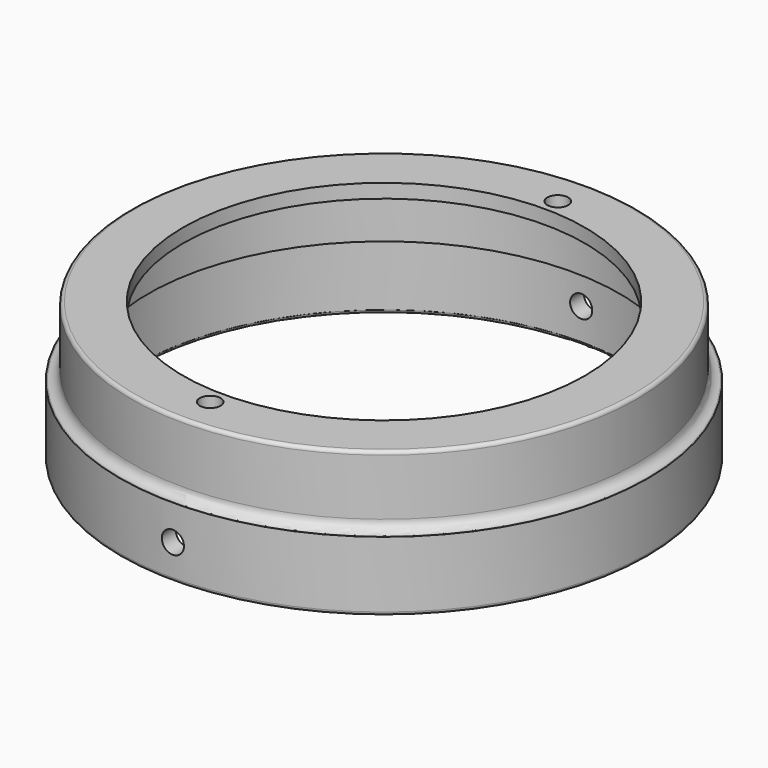
from build123d import *

# Parameters (mm, degrees)
SKETCH_R          = 48.1711
SKETCH_R_2        = 44.9961
PAD_DEPTH         = 12.7
SKETCH001_R       = 46.1645
SKETCH001_R_2     = 42.9895
PAD001_DEPTH      = 12.7
SKETCH002_R       = 2.0193
POCKET_DEPTH      = 76.2
POCKET_DEPTH_BACK = 76.2
SKETCH003_R       = 45.974
SKETCH003_R_2     = 36.6395
PAD002_DEPTH      = 2.54
SKETCH004_R       = 1.905
POCKET001_DEPTH   = 5.08
FILLET_R          = 0.635
FILLET001_R       = 1.778
FILLET002_R       = 0.635


with BuildPart() as part:
    # Sketch → Pad (new body)
    with BuildSketch(Plane.XY):
        Circle(SKETCH_R)
        Circle(SKETCH_R_2, mode=Mode.SUBTRACT)
    extrude(amount=PAD_DEPTH)

    # Sketch001 (on Face4 of Pad) → Pad001 (join)
    with BuildSketch(Plane.XY.offset(12.7)):
        Circle(SKETCH001_R)
        Circle(SKETCH001_R_2, mode=Mode.SUBTRACT)
    extrude(amount=PAD001_DEPTH)

    # Sketch002 → Pocket (cut, two sides)
    with BuildSketch(Plane.XZ) as pocket_sk:
        with Locations((0, 6.35)):
            Circle(SKETCH002_R)
    extrude(amount=POCKET_DEPTH, mode=Mode.SUBTRACT)
    extrude(pocket_sk.sketch, amount=-POCKET_DEPTH_BACK, mode=Mode.SUBTRACT)

    # Sketch003 → Pad002 (join)
    with BuildSketch(Plane.XY.offset(25.4)):
        Circle(SKETCH003_R)
        Circle(SKETCH003_R_2, mode=Mode.SUBTRACT)
    extrude(amount=-PAD002_DEPTH)

    # Sketch004 (on Face12 of Pad002) → Pocket001 (cut)
    with BuildSketch(Plane(origin=(0, 0, 22.86), x_dir=(1, 0, 0), z_dir=(0, 0, -1))):
        with Locations((0, 39.624)):
            Circle(SKETCH004_R)
        with Locations((0, -39.624)):
            Circle(SKETCH004_R)
    extrude(amount=-POCKET001_DEPTH, mode=Mode.SUBTRACT)

    # Fillet
    fillet_edges = [part.edges().sort_by_distance(p)[0] for p in [
        (-48.1711, 0, 0),
        (-44.9961, 0, 0),
    ]]
    fillet(fillet_edges, radius=FILLET_R)

    # Fillet001
    fillet001_edges = [part.edges().sort_by_distance(p)[0] for p in [
        (-46.1645, 0, 12.7),
    ]]
    fillet(fillet001_edges, radius=FILLET001_R)

    # Fillet002
    fillet002_edges = [part.edges().sort_by_distance(p)[0] for p in [
        (-46.1645, 0, 25.4),
    ]]
    fillet(fillet002_edges, radius=FILLET002_R)


solid = part.part
